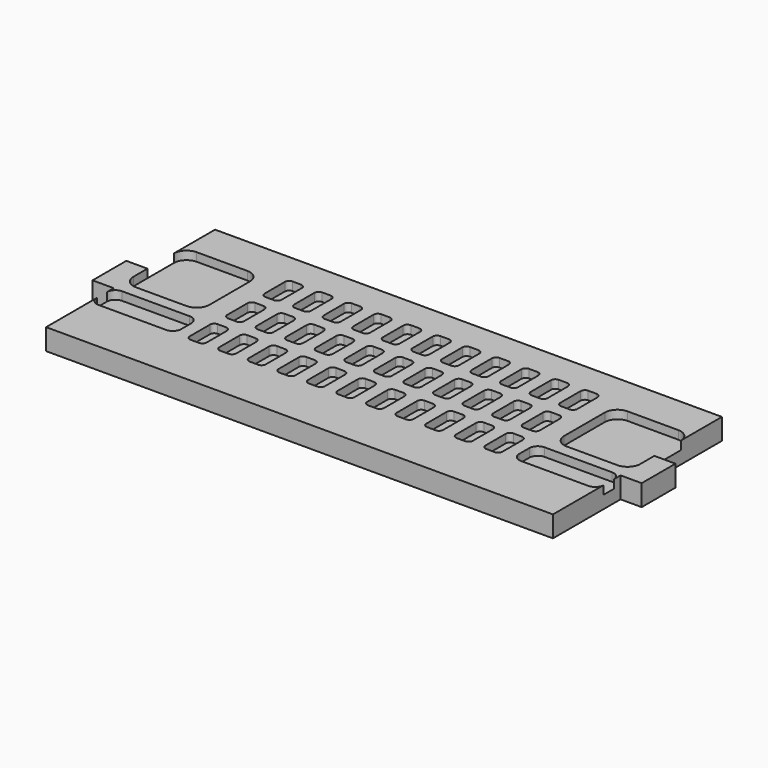
from build123d import *

# Parameters (mm, degrees)
F1_DEPTH = 5
F3_DEPTH = 2


with BuildPart() as f1:
    # F0 (on Top) → F1 (new body)
    with BuildSketch(Plane.XY):
        Polygon((0, 20), (0, 0), (120, 0), (120, 20), (125, 20), (125, 30), (120, 30), (120, 50), (0, 50), (0, 30), (-5, 30), (-5, 20), align=None)
    extrude(amount=F1_DEPTH)

    # F2 (on face) → F3 (cut)
    with BuildSketch(Plane.XY.offset(5)):
        with BuildLine():
            Line((15, 40.828835), (3, 40.828835))
            ThreePointArc((3, 40.828835), (0.87868, 39.950155), (0, 37.828835))
            Line((0, 37.828835), (0, 25.828835))
            ThreePointArc((0, 25.828835), (0.87868, 23.707514), (3, 22.828835))
            Line((3, 22.828835), (15, 22.828835))
            ThreePointArc((15, 22.828835), (17.12132, 23.707514), (18, 25.828835))
            Line((18, 25.828835), (18, 37.828835))
            ThreePointArc((18, 37.828835), (17.12132, 39.950155), (15, 40.828835))
        make_face()
        with BuildLine():
            ThreePointArc((120, 37.828835), (119.12132, 39.950155), (117, 40.828835))
            Line((117, 40.828835), (105, 40.828835))
            ThreePointArc((105, 40.828835), (102.87868, 39.950155), (102, 37.828835))
            Line((102, 37.828835), (102, 25.828835))
            ThreePointArc((102, 25.828835), (102.87868, 23.707514), (105, 22.828835))
            Line((105, 22.828835), (117, 22.828835))
            ThreePointArc((117, 22.828835), (119.12132, 23.707514), (120, 25.828835))
            Line((120, 25.828835), (120, 37.828835))
        make_face()
        with BuildLine():
            Line((18, 20), (2, 20))
            ThreePointArc((2, 20), (0.585786, 19.414214), (0, 18))
            Line((0, 18), (0, 15))
            ThreePointArc((0, 15), (0.585786, 13.585786), (2, 13))
            Line((2, 13), (18, 13))
            ThreePointArc((18, 13), (19.414214, 13.585786), (20, 15))
            Line((20, 15), (20, 18))
            ThreePointArc((20, 18), (19.414214, 19.414214), (18, 20))
        make_face()
        with BuildLine():
            ThreePointArc((120, 18), (119.414214, 19.414214), (118, 20))
            Line((118, 20), (102, 20))
            ThreePointArc((102, 20), (100.585786, 19.414214), (100, 18))
            Line((100, 18), (100, 15))
            ThreePointArc((100, 15), (100.585786, 13.585786), (102, 13))
            Line((102, 13), (118, 13))
            ThreePointArc((118, 13), (119.414214, 13.585786), (120, 15))
            Line((120, 15), (120, 18))
        make_face()
        with BuildLine():
            Line((26.151644, 42.741417), (24.151644, 42.741417))
            ThreePointArc((24.151644, 42.741417), (23.444538, 42.448523), (23.151644, 41.741417))
            Line((23.151644, 41.741417), (23.151644, 35.741417))
            ThreePointArc((23.151644, 35.741417), (23.444538, 35.03431), (24.151644, 34.741417))
            Line((24.151644, 34.741417), (26.151644, 34.741417))
            ThreePointArc((26.151644, 34.741417), (26.858751, 35.03431), (27.151644, 35.741417))
            Line((27.151644, 35.741417), (27.151644, 41.741417))
            ThreePointArc((27.151644, 41.741417), (26.858751, 42.448523), (26.151644, 42.741417))
        make_face()
        with BuildLine():
            Line((33.151644, 42.741417), (31.151644, 42.741417))
            ThreePointArc((31.151644, 42.741417), (30.444538, 42.448523), (30.151644, 41.741417))
            Line((30.151644, 41.741417), (30.151644, 35.741417))
            ThreePointArc((30.151644, 35.741417), (30.444538, 35.03431), (31.151644, 34.741417))
            Line((31.151644, 34.741417), (33.151644, 34.741417))
            ThreePointArc((33.151644, 34.741417), (33.858751, 35.03431), (34.151644, 35.741417))
            Line((34.151644, 35.741417), (34.151644, 41.741417))
            ThreePointArc((34.151644, 41.741417), (33.858751, 42.448523), (33.151644, 42.741417))
        make_face()
        with BuildLine():
            Line((40.151644, 42.741417), (38.151644, 42.741417))
            ThreePointArc((38.151644, 42.741417), (37.444538, 42.448523), (37.151644, 41.741417))
            Line((37.151644, 41.741417), (37.151644, 35.741417))
            ThreePointArc((37.151644, 35.741417), (37.444538, 35.03431), (38.151644, 34.741417))
            Line((38.151644, 34.741417), (40.151644, 34.741417))
            ThreePointArc((40.151644, 34.741417), (40.858751, 35.03431), (41.151644, 35.741417))
            Line((41.151644, 35.741417), (41.151644, 41.741417))
            ThreePointArc((41.151644, 41.741417), (40.858751, 42.448523), (40.151644, 42.741417))
        make_face()
        with BuildLine():
            Line((47.151644, 42.741417), (45.151644, 42.741417))
            ThreePointArc((45.151644, 42.741417), (44.444538, 42.448523), (44.151644, 41.741417))
            Line((44.151644, 41.741417), (44.151644, 35.741417))
            ThreePointArc((44.151644, 35.741417), (44.444538, 35.03431), (45.151644, 34.741417))
            Line((45.151644, 34.741417), (47.151644, 34.741417))
            ThreePointArc((47.151644, 34.741417), (47.858751, 35.03431), (48.151644, 35.741417))
            Line((48.151644, 35.741417), (48.151644, 41.741417))
            ThreePointArc((48.151644, 41.741417), (47.858751, 42.448523), (47.151644, 42.741417))
        make_face()
        with BuildLine():
            Line((54.151644, 42.741417), (52.151644, 42.741417))
            ThreePointArc((52.151644, 42.741417), (51.444538, 42.448523), (51.151644, 41.741417))
            Line((51.151644, 41.741417), (51.151644, 35.741417))
            ThreePointArc((51.151644, 35.741417), (51.444538, 35.03431), (52.151644, 34.741417))
            Line((52.151644, 34.741417), (54.151644, 34.741417))
            ThreePointArc((54.151644, 34.741417), (54.858751, 35.03431), (55.151644, 35.741417))
            Line((55.151644, 35.741417), (55.151644, 41.741417))
            ThreePointArc((55.151644, 41.741417), (54.858751, 42.448523), (54.151644, 42.741417))
        make_face()
        with BuildLine():
            Line((61.151644, 42.741417), (59.151644, 42.741417))
            ThreePointArc((59.151644, 42.741417), (58.444538, 42.448523), (58.151644, 41.741417))
            Line((58.151644, 41.741417), (58.151644, 35.741417))
            ThreePointArc((58.151644, 35.741417), (58.444538, 35.03431), (59.151644, 34.741417))
            Line((59.151644, 34.741417), (61.151644, 34.741417))
            ThreePointArc((61.151644, 34.741417), (61.858751, 35.03431), (62.151644, 35.741417))
            Line((62.151644, 35.741417), (62.151644, 41.741417))
            ThreePointArc((62.151644, 41.741417), (61.858751, 42.448523), (61.151644, 42.741417))
        make_face()
        with BuildLine():
            Line((68.151644, 42.741417), (66.151644, 42.741417))
            ThreePointArc((66.151644, 42.741417), (65.444538, 42.448523), (65.151644, 41.741417))
            Line((65.151644, 41.741417), (65.151644, 35.741417))
            ThreePointArc((65.151644, 35.741417), (65.444538, 35.03431), (66.151644, 34.741417))
            Line((66.151644, 34.741417), (68.151644, 34.741417))
            ThreePointArc((68.151644, 34.741417), (68.858751, 35.03431), (69.151644, 35.741417))
            Line((69.151644, 35.741417), (69.151644, 41.741417))
            ThreePointArc((69.151644, 41.741417), (68.858751, 42.448523), (68.151644, 42.741417))
        make_face()
        with BuildLine():
            Line((75.151644, 42.741417), (73.151644, 42.741417))
            ThreePointArc((73.151644, 42.741417), (72.444538, 42.448523), (72.151644, 41.741417))
            Line((72.151644, 41.741417), (72.151644, 35.741417))
            ThreePointArc((72.151644, 35.741417), (72.444538, 35.03431), (73.151644, 34.741417))
            Line((73.151644, 34.741417), (75.151644, 34.741417))
            ThreePointArc((75.151644, 34.741417), (75.858751, 35.03431), (76.151644, 35.741417))
            Line((76.151644, 35.741417), (76.151644, 41.741417))
            ThreePointArc((76.151644, 41.741417), (75.858751, 42.448523), (75.151644, 42.741417))
        make_face()
        with BuildLine():
            Line((82.151644, 42.741417), (80.151644, 42.741417))
            ThreePointArc((80.151644, 42.741417), (79.444538, 42.448523), (79.151644, 41.741417))
            Line((79.151644, 41.741417), (79.151644, 35.741417))
            ThreePointArc((79.151644, 35.741417), (79.444538, 35.03431), (80.151644, 34.741417))
            Line((80.151644, 34.741417), (82.151644, 34.741417))
            ThreePointArc((82.151644, 34.741417), (82.858751, 35.03431), (83.151644, 35.741417))
            Line((83.151644, 35.741417), (83.151644, 41.741417))
            ThreePointArc((83.151644, 41.741417), (82.858751, 42.448523), (82.151644, 42.741417))
        make_face()
        with BuildLine():
            Line((89.151644, 42.741417), (87.151644, 42.741417))
            ThreePointArc((87.151644, 42.741417), (86.444538, 42.448523), (86.151644, 41.741417))
            Line((86.151644, 41.741417), (86.151644, 35.741417))
            ThreePointArc((86.151644, 35.741417), (86.444538, 35.03431), (87.151644, 34.741417))
            Line((87.151644, 34.741417), (89.151644, 34.741417))
            ThreePointArc((89.151644, 34.741417), (89.858751, 35.03431), (90.151644, 35.741417))
            Line((90.151644, 35.741417), (90.151644, 41.741417))
            ThreePointArc((90.151644, 41.741417), (89.858751, 42.448523), (89.151644, 42.741417))
        make_face()
        with BuildLine():
            Line((96.151644, 42.741417), (94.151644, 42.741417))
            ThreePointArc((94.151644, 42.741417), (93.444538, 42.448523), (93.151644, 41.741417))
            Line((93.151644, 41.741417), (93.151644, 35.741417))
            ThreePointArc((93.151644, 35.741417), (93.444538, 35.03431), (94.151644, 34.741417))
            Line((94.151644, 34.741417), (96.151644, 34.741417))
            ThreePointArc((96.151644, 34.741417), (96.858751, 35.03431), (97.151644, 35.741417))
            Line((97.151644, 35.741417), (97.151644, 41.741417))
            ThreePointArc((97.151644, 41.741417), (96.858751, 42.448523), (96.151644, 42.741417))
        make_face()
        with BuildLine():
            Line((34.089033, 24.741595), (34.089033, 30.741595))
            ThreePointArc((34.089033, 30.741595), (33.79614, 31.448702), (33.089033, 31.741595))
            Line((33.089033, 31.741595), (31.089033, 31.741595))
            ThreePointArc((31.089033, 31.741595), (30.381926, 31.448702), (30.089033, 30.741595))
            Line((30.089033, 30.741595), (30.089033, 24.741595))
            ThreePointArc((30.089033, 24.741595), (30.381926, 24.034488), (31.089033, 23.741595))
            Line((31.089033, 23.741595), (33.089033, 23.741595))
            ThreePointArc((33.089033, 23.741595), (33.79614, 24.034488), (34.089033, 24.741595))
        make_face()
        with BuildLine():
            ThreePointArc((94.089033, 31.741595), (93.381926, 31.448702), (93.089033, 30.741595))
            Line((93.089033, 30.741595), (93.089033, 24.741595))
            ThreePointArc((93.089033, 24.741595), (93.381926, 24.034488), (94.089033, 23.741595))
            Line((94.089033, 23.741595), (96.089033, 23.741595))
            ThreePointArc((96.089033, 23.741595), (96.79614, 24.034488), (97.089033, 24.741595))
            Line((97.089033, 24.741595), (97.089033, 30.741595))
            ThreePointArc((97.089033, 30.741595), (96.79614, 31.448702), (96.089033, 31.741595))
            Line((96.089033, 31.741595), (94.089033, 31.741595))
        make_face()
        with BuildLine():
            ThreePointArc((80.089033, 31.741595), (79.381926, 31.448702), (79.089033, 30.741595))
            Line((79.089033, 30.741595), (79.089033, 24.741595))
            ThreePointArc((79.089033, 24.741595), (79.381926, 24.034488), (80.089033, 23.741595))
            Line((80.089033, 23.741595), (82.089033, 23.741595))
            ThreePointArc((82.089033, 23.741595), (82.79614, 24.034488), (83.089033, 24.741595))
            Line((83.089033, 24.741595), (83.089033, 30.741595))
            ThreePointArc((83.089033, 30.741595), (82.79614, 31.448702), (82.089033, 31.741595))
            Line((82.089033, 31.741595), (80.089033, 31.741595))
        make_face()
        with BuildLine():
            Line((69.089033, 24.741595), (69.089033, 30.741595))
            ThreePointArc((69.089033, 30.741595), (68.79614, 31.448702), (68.089033, 31.741595))
            Line((68.089033, 31.741595), (66.089033, 31.741595))
            ThreePointArc((66.089033, 31.741595), (65.381926, 31.448702), (65.089033, 30.741595))
            Line((65.089033, 30.741595), (65.089033, 24.741595))
            ThreePointArc((65.089033, 24.741595), (65.381926, 24.034488), (66.089033, 23.741595))
            Line((66.089033, 23.741595), (68.089033, 23.741595))
            ThreePointArc((68.089033, 23.741595), (68.79614, 24.034488), (69.089033, 24.741595))
        make_face()
        with BuildLine():
            Line((76.089033, 24.741595), (76.089033, 30.741595))
            ThreePointArc((76.089033, 30.741595), (75.79614, 31.448702), (75.089033, 31.741595))
            Line((75.089033, 31.741595), (73.089033, 31.741595))
            ThreePointArc((73.089033, 31.741595), (72.381926, 31.448702), (72.089033, 30.741595))
            Line((72.089033, 30.741595), (72.089033, 24.741595))
            ThreePointArc((72.089033, 24.741595), (72.381926, 24.034488), (73.089033, 23.741595))
            Line((73.089033, 23.741595), (75.089033, 23.741595))
            ThreePointArc((75.089033, 23.741595), (75.79614, 24.034488), (76.089033, 24.741595))
        make_face()
        with BuildLine():
            ThreePointArc((52.089033, 31.741595), (51.381926, 31.448702), (51.089033, 30.741595))
            Line((51.089033, 30.741595), (51.089033, 24.741595))
            ThreePointArc((51.089033, 24.741595), (51.381926, 24.034488), (52.089033, 23.741595))
            Line((52.089033, 23.741595), (54.089033, 23.741595))
            ThreePointArc((54.089033, 23.741595), (54.79614, 24.034488), (55.089033, 24.741595))
            Line((55.089033, 24.741595), (55.089033, 30.741595))
            ThreePointArc((55.089033, 30.741595), (54.79614, 31.448702), (54.089033, 31.741595))
            Line((54.089033, 31.741595), (52.089033, 31.741595))
        make_face()
        with BuildLine():
            ThreePointArc((38.089033, 31.741595), (37.381926, 31.448702), (37.089033, 30.741595))
            Line((37.089033, 30.741595), (37.089033, 24.741595))
            ThreePointArc((37.089033, 24.741595), (37.381926, 24.034488), (38.089033, 23.741595))
            Line((38.089033, 23.741595), (40.089033, 23.741595))
            ThreePointArc((40.089033, 23.741595), (40.79614, 24.034488), (41.089033, 24.741595))
            Line((41.089033, 24.741595), (41.089033, 30.741595))
            ThreePointArc((41.089033, 30.741595), (40.79614, 31.448702), (40.089033, 31.741595))
            Line((40.089033, 31.741595), (38.089033, 31.741595))
        make_face()
        with BuildLine():
            ThreePointArc((45.089033, 31.741595), (44.381926, 31.448702), (44.089033, 30.741595))
            Line((44.089033, 30.741595), (44.089033, 24.741595))
            ThreePointArc((44.089033, 24.741595), (44.381926, 24.034488), (45.089033, 23.741595))
            Line((45.089033, 23.741595), (47.089033, 23.741595))
            ThreePointArc((47.089033, 23.741595), (47.79614, 24.034488), (48.089033, 24.741595))
            Line((48.089033, 24.741595), (48.089033, 30.741595))
            ThreePointArc((48.089033, 30.741595), (47.79614, 31.448702), (47.089033, 31.741595))
            Line((47.089033, 31.741595), (45.089033, 31.741595))
        make_face()
        with BuildLine():
            ThreePointArc((87.089033, 31.741595), (86.381926, 31.448702), (86.089033, 30.741595))
            Line((86.089033, 30.741595), (86.089033, 24.741595))
            ThreePointArc((86.089033, 24.741595), (86.381926, 24.034488), (87.089033, 23.741595))
            Line((87.089033, 23.741595), (89.089033, 23.741595))
            ThreePointArc((89.089033, 23.741595), (89.79614, 24.034488), (90.089033, 24.741595))
            Line((90.089033, 24.741595), (90.089033, 30.741595))
            ThreePointArc((90.089033, 30.741595), (89.79614, 31.448702), (89.089033, 31.741595))
            Line((89.089033, 31.741595), (87.089033, 31.741595))
        make_face()
        with BuildLine():
            Line((27.089033, 24.741595), (27.089033, 30.741595))
            ThreePointArc((27.089033, 30.741595), (26.79614, 31.448702), (26.089033, 31.741595))
            Line((26.089033, 31.741595), (24.089033, 31.741595))
            ThreePointArc((24.089033, 31.741595), (23.381926, 31.448702), (23.089033, 30.741595))
            Line((23.089033, 30.741595), (23.089033, 24.741595))
            ThreePointArc((23.089033, 24.741595), (23.381926, 24.034488), (24.089033, 23.741595))
            Line((24.089033, 23.741595), (26.089033, 23.741595))
            ThreePointArc((26.089033, 23.741595), (26.79614, 24.034488), (27.089033, 24.741595))
        make_face()
        with BuildLine():
            Line((62.089033, 24.741595), (62.089033, 30.741595))
            ThreePointArc((62.089033, 30.741595), (61.79614, 31.448702), (61.089033, 31.741595))
            Line((61.089033, 31.741595), (59.089033, 31.741595))
            ThreePointArc((59.089033, 31.741595), (58.381926, 31.448702), (58.089033, 30.741595))
            Line((58.089033, 30.741595), (58.089033, 24.741595))
            ThreePointArc((58.089033, 24.741595), (58.381926, 24.034488), (59.089033, 23.741595))
            Line((59.089033, 23.741595), (61.089033, 23.741595))
            ThreePointArc((61.089033, 23.741595), (61.79614, 24.034488), (62.089033, 24.741595))
        make_face()
        with BuildLine():
            Line((34.026421, 13.741773), (34.026421, 19.741773))
            ThreePointArc((34.026421, 19.741773), (33.733528, 20.44888), (33.026421, 20.741773))
            Line((33.026421, 20.741773), (31.026421, 20.741773))
            ThreePointArc((31.026421, 20.741773), (30.319314, 20.44888), (30.026421, 19.741773))
            Line((30.026421, 19.741773), (30.026421, 13.741773))
            ThreePointArc((30.026421, 13.741773), (30.319314, 13.034666), (31.026421, 12.741773))
            Line((31.026421, 12.741773), (33.026421, 12.741773))
            ThreePointArc((33.026421, 12.741773), (33.733528, 13.034666), (34.026421, 13.741773))
        make_face()
        with BuildLine():
            ThreePointArc((94.026421, 20.741773), (93.319314, 20.44888), (93.026421, 19.741773))
            Line((93.026421, 19.741773), (93.026421, 13.741773))
            ThreePointArc((93.026421, 13.741773), (93.319314, 13.034666), (94.026421, 12.741773))
            Line((94.026421, 12.741773), (96.026421, 12.741773))
            ThreePointArc((96.026421, 12.741773), (96.733528, 13.034666), (97.026421, 13.741773))
            Line((97.026421, 13.741773), (97.026421, 19.741773))
            ThreePointArc((97.026421, 19.741773), (96.733528, 20.44888), (96.026421, 20.741773))
            Line((96.026421, 20.741773), (94.026421, 20.741773))
        make_face()
        with BuildLine():
            ThreePointArc((80.026421, 20.741773), (79.319314, 20.44888), (79.026421, 19.741773))
            Line((79.026421, 19.741773), (79.026421, 13.741773))
            ThreePointArc((79.026421, 13.741773), (79.319314, 13.034666), (80.026421, 12.741773))
            Line((80.026421, 12.741773), (82.026421, 12.741773))
            ThreePointArc((82.026421, 12.741773), (82.733528, 13.034666), (83.026421, 13.741773))
            Line((83.026421, 13.741773), (83.026421, 19.741773))
            ThreePointArc((83.026421, 19.741773), (82.733528, 20.44888), (82.026421, 20.741773))
            Line((82.026421, 20.741773), (80.026421, 20.741773))
        make_face()
        with BuildLine():
            Line((69.026421, 13.741773), (69.026421, 19.741773))
            ThreePointArc((69.026421, 19.741773), (68.733528, 20.44888), (68.026421, 20.741773))
            Line((68.026421, 20.741773), (66.026421, 20.741773))
            ThreePointArc((66.026421, 20.741773), (65.319314, 20.44888), (65.026421, 19.741773))
            Line((65.026421, 19.741773), (65.026421, 13.741773))
            ThreePointArc((65.026421, 13.741773), (65.319314, 13.034666), (66.026421, 12.741773))
            Line((66.026421, 12.741773), (68.026421, 12.741773))
            ThreePointArc((68.026421, 12.741773), (68.733528, 13.034666), (69.026421, 13.741773))
        make_face()
        with BuildLine():
            Line((76.026421, 13.741773), (76.026421, 19.741773))
            ThreePointArc((76.026421, 19.741773), (75.733528, 20.44888), (75.026421, 20.741773))
            Line((75.026421, 20.741773), (73.026421, 20.741773))
            ThreePointArc((73.026421, 20.741773), (72.319314, 20.44888), (72.026421, 19.741773))
            Line((72.026421, 19.741773), (72.026421, 13.741773))
            ThreePointArc((72.026421, 13.741773), (72.319314, 13.034666), (73.026421, 12.741773))
            Line((73.026421, 12.741773), (75.026421, 12.741773))
            ThreePointArc((75.026421, 12.741773), (75.733528, 13.034666), (76.026421, 13.741773))
        make_face()
        with BuildLine():
            ThreePointArc((52.026421, 20.741773), (51.319314, 20.44888), (51.026421, 19.741773))
            Line((51.026421, 19.741773), (51.026421, 13.741773))
            ThreePointArc((51.026421, 13.741773), (51.319314, 13.034666), (52.026421, 12.741773))
            Line((52.026421, 12.741773), (54.026421, 12.741773))
            ThreePointArc((54.026421, 12.741773), (54.733528, 13.034666), (55.026421, 13.741773))
            Line((55.026421, 13.741773), (55.026421, 19.741773))
            ThreePointArc((55.026421, 19.741773), (54.733528, 20.44888), (54.026421, 20.741773))
            Line((54.026421, 20.741773), (52.026421, 20.741773))
        make_face()
        with BuildLine():
            ThreePointArc((38.026421, 20.741773), (37.319314, 20.44888), (37.026421, 19.741773))
            Line((37.026421, 19.741773), (37.026421, 13.741773))
            ThreePointArc((37.026421, 13.741773), (37.319314, 13.034666), (38.026421, 12.741773))
            Line((38.026421, 12.741773), (40.026421, 12.741773))
            ThreePointArc((40.026421, 12.741773), (40.733528, 13.034666), (41.026421, 13.741773))
            Line((41.026421, 13.741773), (41.026421, 19.741773))
            ThreePointArc((41.026421, 19.741773), (40.733528, 20.44888), (40.026421, 20.741773))
            Line((40.026421, 20.741773), (38.026421, 20.741773))
        make_face()
        with BuildLine():
            ThreePointArc((45.026421, 20.741773), (44.319314, 20.44888), (44.026421, 19.741773))
            Line((44.026421, 19.741773), (44.026421, 13.741773))
            ThreePointArc((44.026421, 13.741773), (44.319314, 13.034666), (45.026421, 12.741773))
            Line((45.026421, 12.741773), (47.026421, 12.741773))
            ThreePointArc((47.026421, 12.741773), (47.733528, 13.034666), (48.026421, 13.741773))
            Line((48.026421, 13.741773), (48.026421, 19.741773))
            ThreePointArc((48.026421, 19.741773), (47.733528, 20.44888), (47.026421, 20.741773))
            Line((47.026421, 20.741773), (45.026421, 20.741773))
        make_face()
        with BuildLine():
            ThreePointArc((87.026421, 20.741773), (86.319314, 20.44888), (86.026421, 19.741773))
            Line((86.026421, 19.741773), (86.026421, 13.741773))
            ThreePointArc((86.026421, 13.741773), (86.319314, 13.034666), (87.026421, 12.741773))
            Line((87.026421, 12.741773), (89.026421, 12.741773))
            ThreePointArc((89.026421, 12.741773), (89.733528, 13.034666), (90.026421, 13.741773))
            Line((90.026421, 13.741773), (90.026421, 19.741773))
            ThreePointArc((90.026421, 19.741773), (89.733528, 20.44888), (89.026421, 20.741773))
            Line((89.026421, 20.741773), (87.026421, 20.741773))
        make_face()
        with BuildLine():
            Line((27.026421, 13.741773), (27.026421, 19.741773))
            ThreePointArc((27.026421, 19.741773), (26.733528, 20.44888), (26.026421, 20.741773))
            Line((26.026421, 20.741773), (24.026421, 20.741773))
            ThreePointArc((24.026421, 20.741773), (23.319314, 20.44888), (23.026421, 19.741773))
            Line((23.026421, 19.741773), (23.026421, 13.741773))
            ThreePointArc((23.026421, 13.741773), (23.319314, 13.034666), (24.026421, 12.741773))
            Line((24.026421, 12.741773), (26.026421, 12.741773))
            ThreePointArc((26.026421, 12.741773), (26.733528, 13.034666), (27.026421, 13.741773))
        make_face()
        with BuildLine():
            Line((62.026421, 13.741773), (62.026421, 19.741773))
            ThreePointArc((62.026421, 19.741773), (61.733528, 20.44888), (61.026421, 20.741773))
            Line((61.026421, 20.741773), (59.026421, 20.741773))
            ThreePointArc((59.026421, 20.741773), (58.319314, 20.44888), (58.026421, 19.741773))
            Line((58.026421, 19.741773), (58.026421, 13.741773))
            ThreePointArc((58.026421, 13.741773), (58.319314, 13.034666), (59.026421, 12.741773))
            Line((59.026421, 12.741773), (61.026421, 12.741773))
            ThreePointArc((61.026421, 12.741773), (61.733528, 13.034666), (62.026421, 13.741773))
        make_face()
    extrude(amount=-F3_DEPTH, mode=Mode.SUBTRACT)


solid = f1.part
